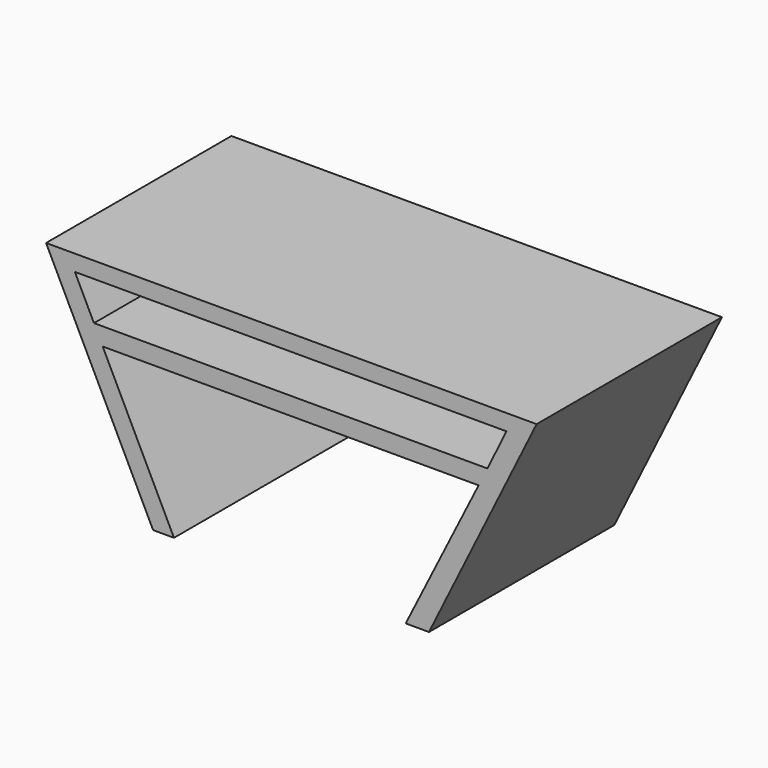
from build123d import *

# Parameters (mm, degrees)
F0_W     = 180
F0_H     = 80
F1_DEPTH = 85
F3_DEPTH = 85.001
F5_DEPTH = 85.001
F6_SCALE = 0.5


with BuildPart() as f1:
    # F0 (on Front) → F1 (new body)
    with BuildSketch(Plane.XZ):
        with Locations((4.7223418951, 11.9884983084)):
            Rectangle(F0_W, F0_H)
    extrude(amount=F1_DEPTH)

    # F2 (on face) → F3 (cut, through all)
    with BuildSketch(Plane.XZ.offset(85)):
        Polygon((-46.0070036352, -28.0115016916), (-85.2776581049, 51.9884983084), (-85.2776581049, -28.0115016916), align=None)
        Polygon((94.7223418951, -28.0115016916), (94.7223418951, 51.9884983084), (55.2294403315, -28.0115016916), align=None)
    extrude(amount=-F3_DEPTH, mode=Mode.SUBTRACT)

    # F4 (on face) → F5 (cut, through all)
    with BuildSketch(Plane.XZ.offset(85)):
        Polygon((-74.7092828557, 46.072713804), (-67.7043439121, 31.8026405634), (76.6995772719, 31.8026405634), (83.6467270564, 46.072713804), align=None)
        Polygon((73.4329734772, 25.2924152588), (-64.5085838063, 25.2924152588), (-38.3425875008, -28.0115016916), (46.6869287193, -28.0115016916), align=None)
    extrude(amount=-F5_DEPTH, mode=Mode.SUBTRACT)


with BuildPart() as f1_1:
    # F6: moved
    add(f1.part.scale(F6_SCALE))


solid = f1_1.part
